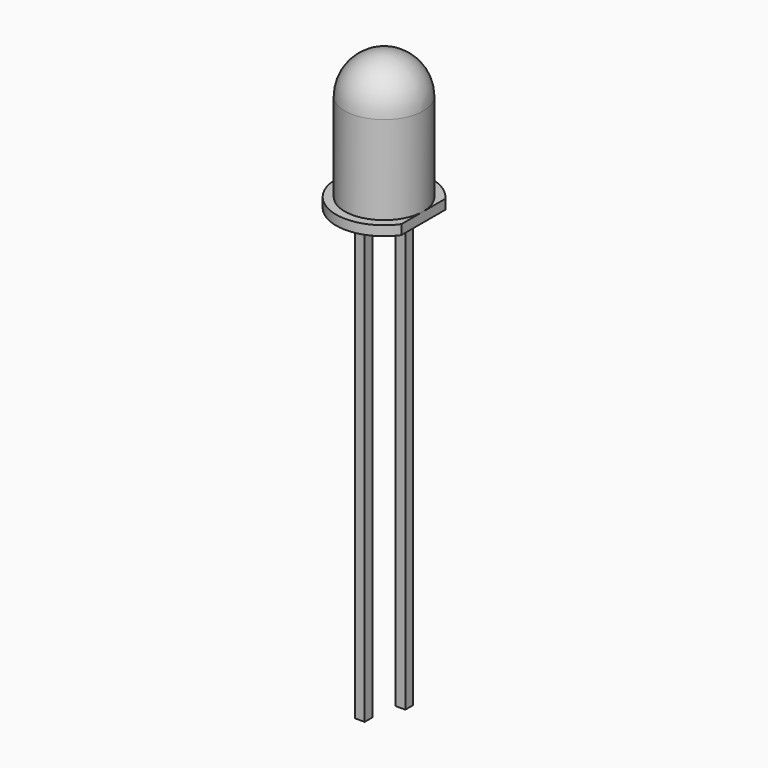
from build123d import *

# Parameters (mm, degrees)
F3_DEPTH = 25.4
F2_W     = 0.6
F2_H     = 0.6
F4_DEPTH = 27
F5_DEPTH = 28.5
F7_DEPTH = 0.6
F9_DEPTH = 0.6


with BuildPart() as f1:
    # F0 (on Front) → F1 (revolve)
    with BuildSketch(Plane.XZ):
        with BuildLine():
            Line((0, 0.6049648509), (0, 0))
            Line((0, 0), (2.46, 0))
            Line((2.46, 0), (3, 0))
            Line((3, 0), (3, 0.6049648509))
            Line((3, 0.6049648509), (2.46, 0.6049648509))
            Line((2.46, 0.6049648509), (2.46, 6.14))
            ThreePointArc((2.46, 6.14), (1.7394826817, 7.8794826817), (0, 8.6))
            Line((0, 8.6), (0, 0.6049648509))
        make_face()
    revolve(axis=Axis((0, 0, 4.3), (0, 0, 1)))

    # F2 (on face) → F3 (cut)
    with BuildSketch(Plane(origin=(0, 0, 0), x_dir=(1, 0, 0), z_dir=(0, 0, -1))):
        with BuildLine():
            Line((2.46, 1.7170905626), (2.46, 0))
            Line((2.46, 0), (2.46, -1.7170905626))
            ThreePointArc((2.46, -1.7170905626), (2.8618176043, -0.9), (3, 0))
            ThreePointArc((3, 0), (2.8618176043, 0.9), (2.46, 1.7170905626))
        make_face()
    extrude(amount=-F3_DEPTH, mode=Mode.SUBTRACT)


with BuildPart() as f4:
    # F2 (on face) → F4 (new body)
    with BuildSketch(Plane(origin=(0, 0, 0), x_dir=(1, 0, 0), z_dir=(0, 0, -1))):
        with Locations((1.27, 0)):
            Rectangle(F2_W, F2_H)
    extrude(amount=F4_DEPTH)

    # F6 (on face) → F7 (join)
    with BuildSketch(Plane.XZ.offset(0.3)):
        Polygon((0.97, 3.1320848502), (0.97, 0), (1.57, 0), (1.57, 4.7281896695), (-0.8547797916, 4.7281896695), align=None)
    extrude(amount=-F7_DEPTH)


with BuildPart() as f5:
    # F2 (on face) → F5 (new body)
    with BuildSketch(Plane(origin=(0, 0, 0), x_dir=(1, 0, 0), z_dir=(0, 0, -1))):
        with Locations((-1.27, 0)):
            Rectangle(F2_W, F2_H)
    extrude(amount=F5_DEPTH)

    # F8 (on face) → F9 (join)
    with BuildSketch(Plane.XZ.offset(0.3)):
        Polygon((-1.57, 4.7174678184), (-1.57, 0), (-0.97, 0), (-0.97, 3.151535755), (0.2029162715, 3.151535755), align=None)
    extrude(amount=-F9_DEPTH)


solid = Compound([f1.part, f4.part, f5.part])
